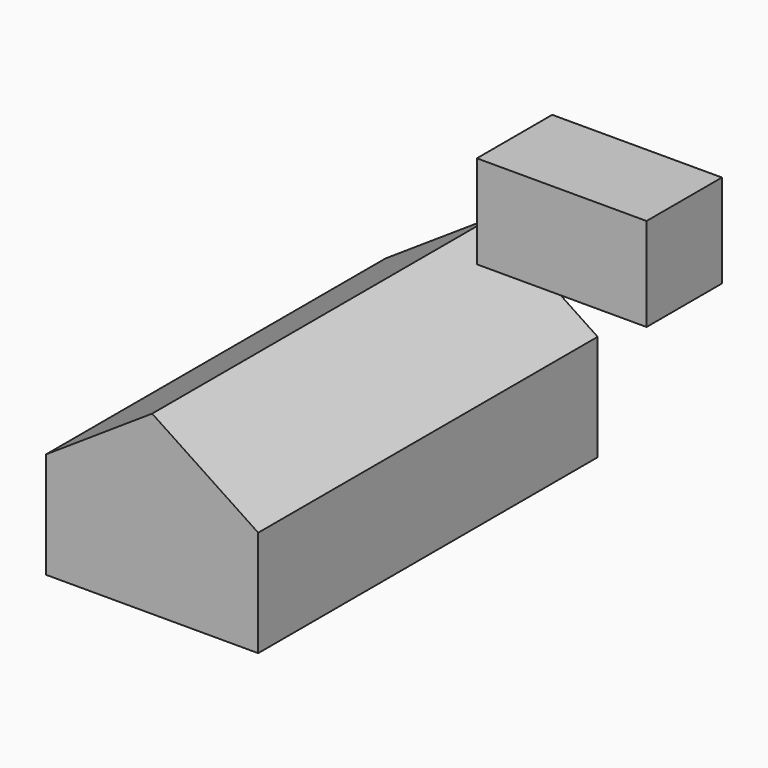
from build123d import *

# Parameters (mm, degrees)
F0_W     = 50.8
F0_H     = 27.94
F1_DEPTH = 28.194
F3_DEPTH = 127


with BuildPart() as f1:
    # F0 (on Front) → F1 (new body)
    with BuildSketch(Plane.XZ):
        with Locations((18.806474, 24.654712)):
            Rectangle(F0_W, F0_H)
    extrude(amount=F1_DEPTH)


with BuildPart() as f3:
    # F2 (on Front) → F3 (new body)
    with BuildSketch(Plane.XZ):
        Polygon((-56.495364, -15.45193), (-56.495364, -47.20193), (7.004636, -47.20193), (7.004636, -15.45193), (-24.745364, 5.608638), align=None)
    extrude(amount=F3_DEPTH)


solid = Compound([f1.part, f3.part])
